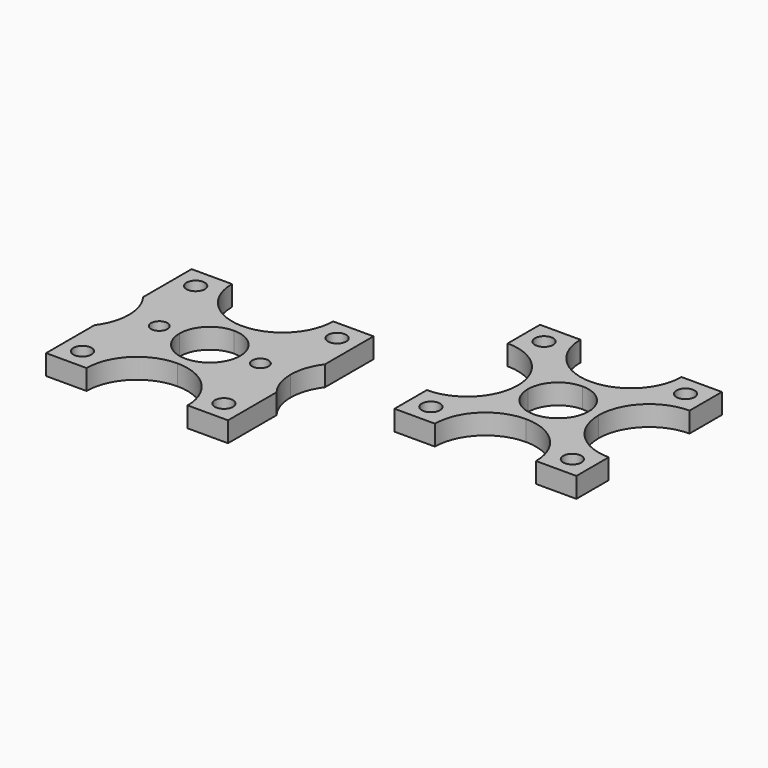
from build123d import *

# Parameters (mm, degrees)
F0_R     = 4.5
F1_DEPTH = 10
F2_R     = 4.5
F3_DEPTH = 10


with BuildPart() as f1:
    # F0 (on Top) → F1 (new body)
    with BuildSketch(Plane.XY):
        with BuildLine():
            Line((25, 45), (30, 45))
            ThreePointArc((30, 45), (34.393398, 55.606602), (45, 60))
            Line((45, 60), (45, 65))
            ThreePointArc((45, 65), (27.32233, 72.32233), (20, 90))
            Line((20, 90), (0, 90))
            Line((0, 90), (0, 70))
            ThreePointArc((0, 70), (17.67767, 62.67767), (25, 45))
        make_face()
        with Locations((10, 80)):
            Circle(F0_R, mode=Mode.SUBTRACT)
        with BuildLine():
            ThreePointArc((45, 60), (55.606602, 55.606602), (60, 45))
            Line((60, 45), (65, 45))
            ThreePointArc((65, 45), (72.32233, 62.67767), (90, 70))
            Line((90, 70), (90, 90))
            Line((90, 90), (70, 90))
            ThreePointArc((70, 90), (62.67767, 72.32233), (45, 65))
            Line((45, 65), (45, 60))
        make_face()
        with Locations((80, 80)):
            Circle(F0_R, mode=Mode.SUBTRACT)
        with BuildLine():
            ThreePointArc((45, 25), (62.67767, 17.67767), (70, 0))
            Line((70, 0), (90, 0))
            Line((90, 0), (90, 20))
            ThreePointArc((90, 20), (72.32233, 27.32233), (65, 45))
            Line((65, 45), (60, 45))
            ThreePointArc((60, 45), (55.606602, 34.393398), (45, 30))
            Line((45, 30), (45, 25))
        make_face()
        with Locations((80, 10)):
            Circle(F0_R, mode=Mode.SUBTRACT)
        with BuildLine():
            Line((0, 0), (20, 0))
            ThreePointArc((20, 0), (27.32233, 17.67767), (45, 25))
            Line((45, 25), (45, 30))
            ThreePointArc((45, 30), (34.393398, 34.393398), (30, 45))
            Line((30, 45), (25, 45))
            ThreePointArc((25, 45), (17.67767, 27.32233), (0, 20))
            Line((0, 20), (0, 0))
        make_face()
        with Locations((10, 10)):
            Circle(F0_R, mode=Mode.SUBTRACT)
    extrude(amount=F1_DEPTH)


with BuildPart() as f3:
    # F2 (on Top) → F3 (new body)
    with BuildSketch(Plane.XY):
        with BuildLine():
            Line((-110.14577, -2.738095), (-104.19577, -2.738095))
            ThreePointArc((-104.19577, -2.738095), (-99.802372, 7.868506), (-89.19577, 12.261905))
            Line((-89.19577, 12.261905), (-89.19577, 17.261905))
            ThreePointArc((-89.19577, 17.261905), (-106.873439, 24.584235), (-114.19577, 42.261905))
            Line((-114.19577, 42.261905), (-134.19577, 42.261905))
            Line((-134.19577, 42.261905), (-134.19577, 12.261905))
            ThreePointArc((-134.19577, 12.261905), (-130.478687, 5.167599), (-129.19577, -2.738095))
            Line((-129.19577, -2.738095), (-118.24577, -2.738095))
            ThreePointArc((-118.24577, -2.738095), (-114.19577, 1.311905), (-110.14577, -2.738095))
        make_face()
        with Locations((-124.19577, 32.261905)):
            Circle(F2_R, mode=Mode.SUBTRACT)
        with BuildLine():
            ThreePointArc((-89.19577, 12.261905), (-78.589168, 7.868506), (-74.19577, -2.738095))
            Line((-74.19577, -2.738095), (-68.24577, -2.738095))
            ThreePointArc((-68.24577, -2.738095), (-64.19577, 1.311905), (-60.14577, -2.738095))
            Line((-60.14577, -2.738095), (-49.19577, -2.738095))
            ThreePointArc((-49.19577, -2.738095), (-47.912852, 5.167599), (-44.19577, 12.261905))
            Line((-44.19577, 12.261905), (-44.19577, 42.261905))
            Line((-44.19577, 42.261905), (-64.19577, 42.261905))
            ThreePointArc((-64.19577, 42.261905), (-71.5181, 24.584235), (-89.19577, 17.261905))
            Line((-89.19577, 17.261905), (-89.19577, 12.261905))
        make_face()
        with Locations((-54.19577, 32.261905)):
            Circle(F2_R, mode=Mode.SUBTRACT)
        with BuildLine():
            ThreePointArc((-89.19577, -22.738095), (-71.5181, -30.060426), (-64.19577, -47.738095))
            Line((-64.19577, -47.738095), (-44.19577, -47.738095))
            Line((-44.19577, -47.738095), (-44.19577, -17.738095))
            ThreePointArc((-44.19577, -17.738095), (-47.912852, -10.643789), (-49.19577, -2.738095))
            Line((-49.19577, -2.738095), (-60.14577, -2.738095))
            ThreePointArc((-60.14577, -2.738095), (-64.19577, -6.788095), (-68.24577, -2.738095))
            Line((-68.24577, -2.738095), (-74.19577, -2.738095))
            ThreePointArc((-74.19577, -2.738095), (-78.589168, -13.344697), (-89.19577, -17.738095))
            Line((-89.19577, -17.738095), (-89.19577, -22.738095))
        make_face()
        with Locations((-54.19577, -37.738095)):
            Circle(F2_R, mode=Mode.SUBTRACT)
        with BuildLine():
            Line((-134.19577, -47.738095), (-114.19577, -47.738095))
            ThreePointArc((-114.19577, -47.738095), (-106.873439, -30.060426), (-89.19577, -22.738095))
            Line((-89.19577, -22.738095), (-89.19577, -17.738095))
            ThreePointArc((-89.19577, -17.738095), (-99.802372, -13.344697), (-104.19577, -2.738095))
            Line((-104.19577, -2.738095), (-110.14577, -2.738095))
            ThreePointArc((-110.14577, -2.738095), (-114.19577, -6.788095), (-118.24577, -2.738095))
            Line((-118.24577, -2.738095), (-129.19577, -2.738095))
            ThreePointArc((-129.19577, -2.738095), (-130.478687, -10.643789), (-134.19577, -17.738095))
            Line((-134.19577, -17.738095), (-134.19577, -47.738095))
        make_face()
        with Locations((-124.19577, -37.738095)):
            Circle(F2_R, mode=Mode.SUBTRACT)
    extrude(amount=F3_DEPTH)


solid = Compound([f1.part, f3.part])
